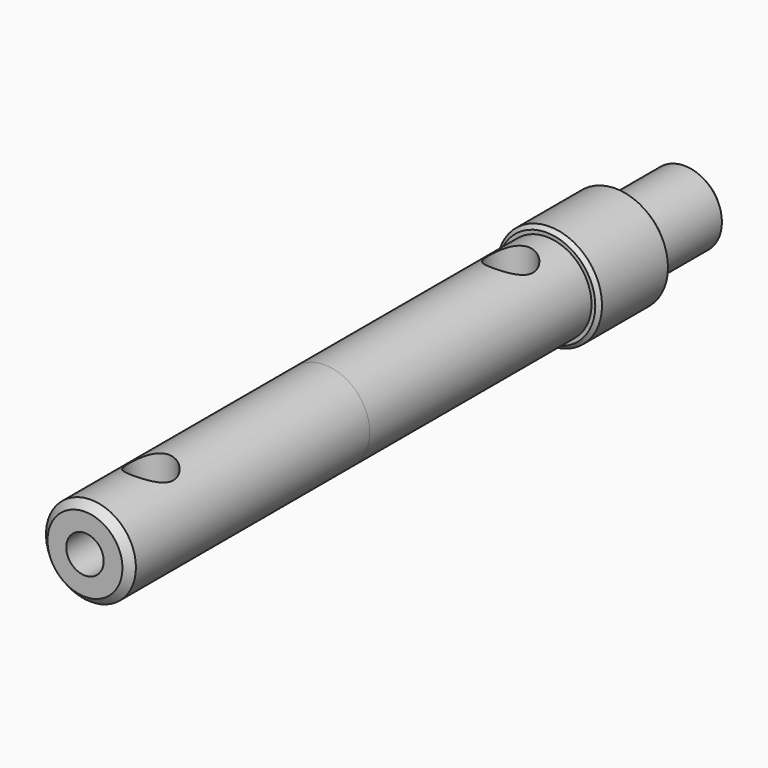
from build123d import *

# Parameters (mm, degrees)
F0_R           = 7
F0_R_2         = 6
F1_DEPTH       = 12
F0_R_3         = 5
F2_DEPTH       = 24
F3_DEPTH       = 24
F3_DEPTH_BACK  = 12
F4_SIZE        = 1
F5_SIZE        = 0.5
F6_R           = 3
F7_DEPTH       = 25
F7_DEPTH_BACK  = 25
F9_R           = 6
F10_DEPTH      = 26
F10_DEPTH_BACK = 40
F11_SIZE       = 1
F12_DEPTH      = 25
F12_DEPTH_BACK = 25
F13_R          = 2.5
F14_DEPTH      = 15


with BuildPart() as f1:
    # F0 (on Front) → F1 (new body)
    with BuildSketch(Plane.XZ):
        Circle(F0_R)
        Circle(F0_R_2, mode=Mode.SUBTRACT)
    extrude(amount=F1_DEPTH)

    # F0 (on Front) → F2 (join)
    with BuildSketch(Plane.XZ):
        Circle(F0_R_2)
        Circle(F0_R_3, mode=Mode.SUBTRACT)
    extrude(amount=F2_DEPTH)

    # F0 (on Front) → F3 (join, two sides)
    with BuildSketch(Plane.XZ) as f3_sk:
        Circle(F0_R_3)
    extrude(amount=F3_DEPTH)
    extrude(f3_sk.sketch, amount=-F3_DEPTH_BACK)

    # F4
    f4_edges = [f1.edges().sort_by_distance(p)[0] for p in [
        (-5, 12, 0),
    ]]
    chamfer(f4_edges, length=F4_SIZE)

    # F5
    f5_edges = [f1.edges().sort_by_distance(p)[0] for p in [
        (-6, -24, 0),
        (-7, -12, 0),
        (7, -6, 0),
        (-7, 0, 0),
    ]]
    chamfer(f5_edges, length=F5_SIZE)

    # F6 (on Top) → F7 (cut, two sides)
    with BuildSketch(Plane.XY) as f7_sk:
        with Locations((0, -18)):
            Circle(F6_R)
        with Locations((0, -78)):
            Circle(F6_R)
    extrude(amount=-F7_DEPTH, mode=Mode.SUBTRACT)
    extrude(f7_sk.sketch, amount=F7_DEPTH_BACK, mode=Mode.SUBTRACT)

    # F9 (on offset) → F10 (join, two sides)
    with BuildSketch(Plane.XZ.offset(49)) as f10_sk:
        Circle(F9_R)
    extrude(amount=-F10_DEPTH)
    extrude(f10_sk.sketch, amount=F10_DEPTH_BACK)

    # F11
    f11_edges = [f1.edges().sort_by_distance(p)[0] for p in [
        (-6, -89, 0),
    ]]
    chamfer(f11_edges, length=F11_SIZE)

    # F6 (on Top) → F12 (cut, two sides)
    with BuildSketch(Plane.XY) as f12_sk:
        with Locations((0, -18)):
            Circle(F6_R)
        with Locations((0, -78)):
            Circle(F6_R)
    extrude(amount=F12_DEPTH, mode=Mode.SUBTRACT)
    extrude(f12_sk.sketch, amount=-F12_DEPTH_BACK, mode=Mode.SUBTRACT)

    # F13 (on face) → F14 (cut)
    with BuildSketch(Plane.XZ.offset(89)):
        Circle(F13_R)
    extrude(amount=-F14_DEPTH, mode=Mode.SUBTRACT)


solid = f1.part
